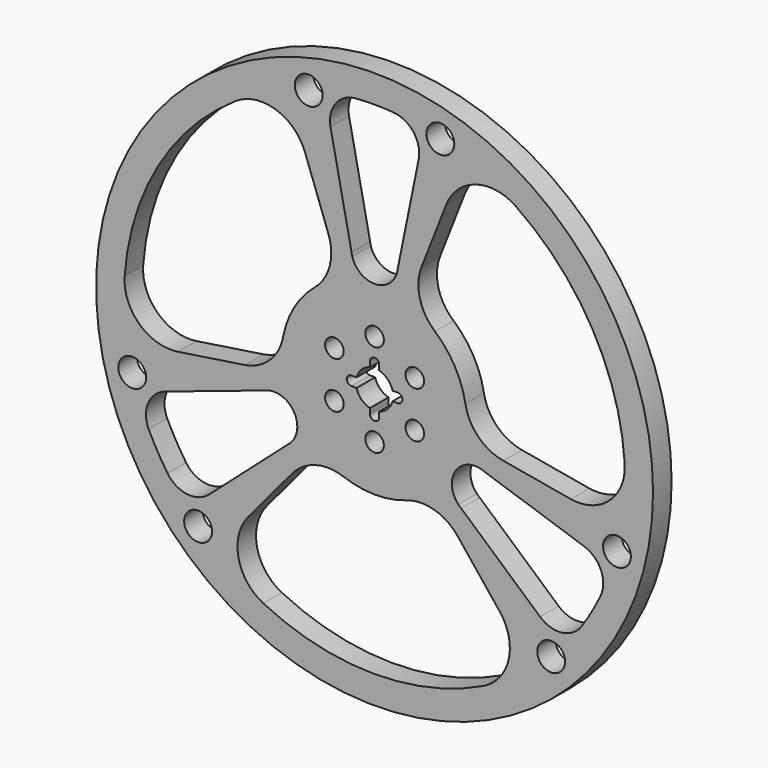
from build123d import *

# Parameters (mm, degrees)
F0_R     = 1524
F0_R_2   = 76.2
F0_R_3   = 381
F0_R_4   = 50.8
F1_DEPTH = 127


with BuildPart() as f1:
    # F0 (on Front) → F1 (new body)
    with BuildSketch(Plane.XZ):
        Circle(F0_R)
        with Locations((-965.797753, -973.920562)):
            Circle(F0_R_2, mode=Mode.SUBTRACT)
        with BuildLine():
            ThreePointArc((-452.146423, -553.330432), (-322.90216, -469.821548), (-169.160785, -476.25604))
            ThreePointArc((-169.160785, -476.25604), (-0.163844, -506.941304), (169.399017, -479.555405))
            ThreePointArc((169.399017, -479.555405), (323.140392, -473.120913), (452.384655, -556.629797))
            Line((452.384655, -556.629797), (683.86174, -846.727957))
            ThreePointArc((683.86174, -846.727957), (734.068517, -1061.897898), (596.738733, -1234.985605))
            ThreePointArc((596.738733, -1234.985605), (-6.868593, -1371.582802), (-609.07758, -1228.947135))
            ThreePointArc((-609.07758, -1228.947135), (-744.671817, -1054.469942), (-692.27808, -839.800465))
            Line((-692.27808, -839.800465), (-452.146423, -553.330432))
        make_face(mode=Mode.SUBTRACT)
        with BuildLine():
            ThreePointArc((-1132.816748, -773.312857), (-1187.840444, -685.8), (-1236.116953, -594.391653))
            ThreePointArc((-1236.116953, -594.391653), (-1239.14932, -469.02207), (-1147.127855, -383.823611))
            Line((-1147.127855, -383.823611), (-599.663958, -200.644754))
            ThreePointArc((-599.663958, -200.644754), (-590.223823, -197.062896), (-580.52898, -194.242279))
            ThreePointArc((-580.52898, -194.242279), (-439.940905, -254), (-458.483238, -405.631704))
            ThreePointArc((-458.483238, -405.631704), (-465.773385, -412.617377), (-473.595433, -419.001845))
            Line((-473.595433, -419.001845), (-905.964925, -801.530058))
            ThreePointArc((-905.964925, -801.530058), (-1025.759688, -838.623755), (-1132.816748, -773.312857))
        make_face(mode=Mode.SUBTRACT)
        with Locations((-1326.176144, -350.061989)):
            Circle(F0_R_2, mode=Mode.SUBTRACT)
        with Locations((966.250647, -973.471236)):
            Circle(F0_R_2, mode=Mode.SUBTRACT)
        with BuildLine():
            ThreePointArc((473.595433, -419.001845), (465.773385, -412.617377), (458.483238, -405.631704))
            ThreePointArc((458.483238, -405.631704), (439.940905, -254), (580.52898, -194.242279))
            ThreePointArc((580.52898, -194.242279), (590.223823, -197.062896), (599.663958, -200.644754))
            Line((599.663958, -200.644754), (1147.127855, -383.823611))
            ThreePointArc((1147.127855, -383.823611), (1239.14932, -469.02207), (1236.116953, -594.391653))
            ThreePointArc((1236.116953, -594.391653), (1187.840444, -685.8), (1132.816748, -773.312857))
            ThreePointArc((1132.816748, -773.312857), (1025.759688, -838.623755), (905.964925, -801.530058))
            Line((905.964925, -801.530058), (473.595433, -419.001845))
        make_face(mode=Mode.SUBTRACT)
        with Locations((1326.338824, -349.445108)):
            Circle(F0_R_2, mode=Mode.SUBTRACT)
        with BuildLine():
            ThreePointArc((-253.124999, 668.235505), (-245.426316, 514.552248), (-327.869437, 384.625557))
            ThreePointArc((-327.869437, 384.625557), (-438.942125, 253.612545), (-500.006672, 93.073851))
            ThreePointArc((-500.006672, 93.073851), (-571.304926, -43.287332), (-708.247872, -113.461705))
            Line((-708.247872, -113.461705), (-1075.218791, -168.877661))
            ThreePointArc((-1075.218791, -168.877661), (-1286.664815, -104.773035), (-1367.898274, 100.701901))
            ThreePointArc((-1367.898274, 100.701901), (-1184.391253, 691.739777), (-759.760649, 1141.950225))
            ThreePointArc((-759.760649, 1141.950225), (-540.861849, 1172.139682), (-381.149497, 1019.430636))
            Line((-381.149497, 1019.430636), (-253.124999, 668.235505))
        make_face(mode=Mode.SUBTRACT)
        with Locations((-360.541072, 1323.36567)):
            Circle(F0_R_2, mode=Mode.SUBTRACT)
        Circle(F0_R_3, mode=Mode.SUBTRACT)
        with BuildLine():
            ThreePointArc((705.271423, -114.905073), (568.328476, -44.7307), (497.030222, 91.630483))
            ThreePointArc((497.030222, 91.630483), (439.10597, 253.328759), (330.607655, 386.481554))
            ThreePointArc((330.607655, 386.481554), (248.164534, 516.408245), (255.863217, 670.091502))
            Line((255.863217, 670.091502), (391.357051, 1015.605618))
            ThreePointArc((391.357051, 1015.605618), (552.596297, 1166.670933), (771.159541, 1134.283704))
            ThreePointArc((771.159541, 1134.283704), (1191.259846, 679.843025), (1368.838229, 86.99691))
            ThreePointArc((1368.838229, 86.99691), (1285.533665, -117.66974), (1073.427576, -179.630171))
            Line((1073.427576, -179.630171), (705.271423, -114.905073))
        make_face(mode=Mode.SUBTRACT)
        with BuildLine():
            ThreePointArc((0, 1371.6), (51.686815, 1370.625782), (103.300205, 1367.70451))
            ThreePointArc((103.300205, 1367.70451), (213.389632, 1307.645825), (241.16293, 1185.353669))
            Line((241.16293, 1185.353669), (126.068525, 619.646598))
            ThreePointArc((126.068525, 619.646598), (124.450437, 609.680272), (122.045741, 599.873984))
            ThreePointArc((122.045741, 599.873984), (0, 508), (-122.045741, 599.873984))
            ThreePointArc((-122.045741, 599.873984), (-124.450437, 609.680272), (-126.068525, 619.646598))
            Line((-126.068525, 619.646598), (-241.16293, 1185.353669))
            ThreePointArc((-241.16293, 1185.353669), (-213.389632, 1307.645825), (-103.300205, 1367.70451))
            ThreePointArc((-103.300205, 1367.70451), (-51.686815, 1370.625782), (0, 1371.6))
        make_face(mode=Mode.SUBTRACT)
        with Locations((359.925497, 1323.533225)):
            Circle(F0_R_2, mode=Mode.SUBTRACT)
        Circle(F0_R_3)
        with Locations((-0.163844, -253.999947)):
            Circle(F0_R_4, mode=Mode.SUBTRACT)
        with Locations((-219.970453, -127)):
            Circle(F0_R_4, mode=Mode.SUBTRACT)
        with Locations((219.970453, -127)):
            Circle(F0_R_4, mode=Mode.SUBTRACT)
        with Locations((-219.888485, 127.141867)):
            Circle(F0_R_4, mode=Mode.SUBTRACT)
        with BuildLine():
            ThreePointArc((-25.399631, -98.373872), (-71.841914, -71.842184), (-98.373777, -25.4))
            Line((-98.373777, -25.4), (-127, -25.4))
            ThreePointArc((-127, -25.4), (-152.4, 0), (-127, 25.4))
            Line((-127, 25.4), (-98.373777, 25.4))
            ThreePointArc((-98.373777, 25.4), (-71.842049, 71.842049), (-25.4, 98.373777))
            Line((-25.4, 98.373777), (-25.4, 127))
            ThreePointArc((-25.4, 127), (0, 152.4), (25.4, 127))
            Line((25.4, 127), (25.4, 98.373777))
            ThreePointArc((25.4, 98.373777), (71.842049, 71.842049), (98.373777, 25.4))
            Line((98.373777, 25.4), (127, 25.4))
            ThreePointArc((127, 25.4), (152.4, 0), (127, -25.4))
            Line((127, -25.4), (98.373777, -25.4))
            ThreePointArc((98.373777, -25.4), (71.842049, -71.842049), (25.4, -98.373777))
            Line((25.4, -98.373777), (25.4, -127))
            ThreePointArc((25.4, -127), (-0.000164, -152.4), (-25.4, -126.999672))
            Line((-25.4, -126.999672), (-25.399631, -98.373872))
        make_face(mode=Mode.SUBTRACT)
        with Locations((220.052329, 126.85808)):
            Circle(F0_R_4, mode=Mode.SUBTRACT)
        with Locations((0, 254)):
            Circle(F0_R_4, mode=Mode.SUBTRACT)
    extrude(amount=F1_DEPTH)


solid = f1.part
